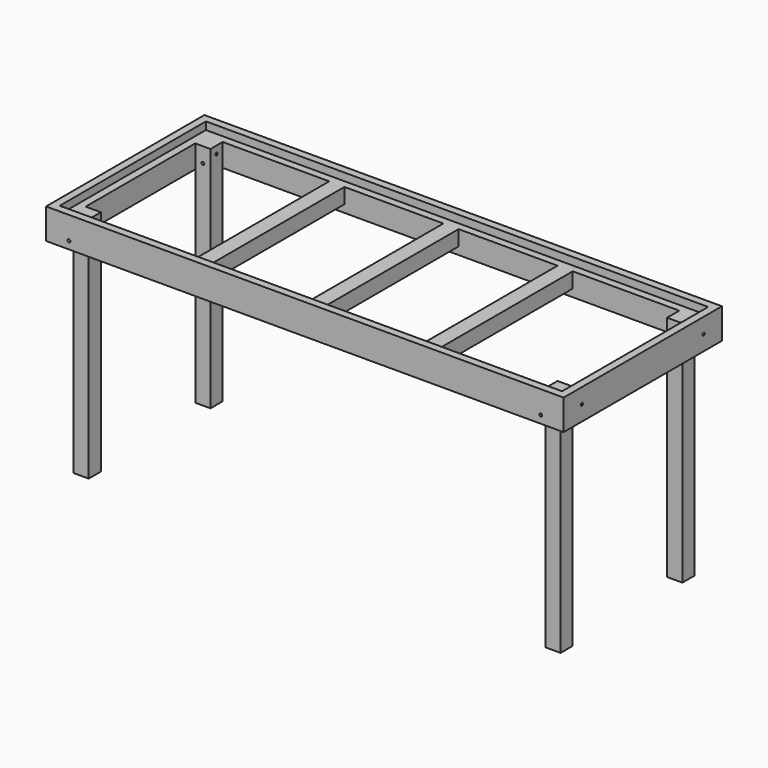
from build123d import *

# Parameters (mm, degrees)
F0_W          = 1727.2
F0_H          = 660.4
F0_W_2        = 1676.4
F0_H_2        = 609.6
F1_DEPTH      = 101.6
F2_W          = 1676.4
F2_H          = 609.6
F2_W_2        = 1625.6
F2_H_2        = 558.8
F3_DEPTH      = 76.2
F4_W          = 50.8
F4_H          = 50.8
F5_DEPTH      = 76.2
F5_DEPTH_BACK = 685.8
F6_R          = 4.7625
F7_DEPTH      = 1727.201
F8_R          = 4.7625
F9_DEPTH      = 660.401
F10_W         = 50.8
F10_H         = 558.8
F11_DEPTH     = 50.8


with BuildPart() as f1:
    # F0 (on Top) → F1 (new body)
    with BuildSketch(Plane.XY):
        Rectangle(F0_W, F0_H)
        Rectangle(F0_W_2, F0_H_2, mode=Mode.SUBTRACT)
    extrude(amount=F1_DEPTH)

    # F2 (on Top) → F3 (join)
    with BuildSketch(Plane.XY):
        Rectangle(F2_W, F2_H)
        Rectangle(F2_W_2, F2_H_2, mode=Mode.SUBTRACT)
    extrude(amount=F3_DEPTH)

    # F4 (on Top) → F5 (join, two sides)
    with BuildSketch(Plane.XY) as f5_sk:
        with Locations((-787.4, -254)):
            Rectangle(F4_W, F4_H)
        with Locations((-787.4, 254)):
            Rectangle(F4_W, F4_H)
        with Locations((787.4, -254)):
            Rectangle(F4_W, F4_H)
        with Locations((787.4, 254)):
            Rectangle(F4_W, F4_H)
    extrude(amount=F5_DEPTH)
    extrude(f5_sk.sketch, amount=-F5_DEPTH_BACK)

    # F6 (on face) → F7 (cut, through all)
    with BuildSketch(Plane.YZ.offset(863.6)):
        with Locations((-254, 50.8)):
            Circle(F6_R)
        with Locations((254, 50.8)):
            Circle(F6_R)
    extrude(amount=-F7_DEPTH, mode=Mode.SUBTRACT)

    # F8 (on face) → F9 (cut, through all)
    with BuildSketch(Plane.XZ.offset(330.2)):
        with Locations((-787.4, 25.4)):
            Circle(F8_R)
        with Locations((787.4, 25.4)):
            Circle(F8_R)
    extrude(amount=-F9_DEPTH, mode=Mode.SUBTRACT)

    # F10 (on face) → F11 (join)
    with BuildSketch(Plane.XY.offset(76.2)):
        with Locations((-381, 0)):
            Rectangle(F10_W, F10_H)
        with Locations((381, 0)):
            Rectangle(F10_W, F10_H)
        Rectangle(F10_W, F10_H)
    extrude(amount=-F11_DEPTH)


solid = f1.part
